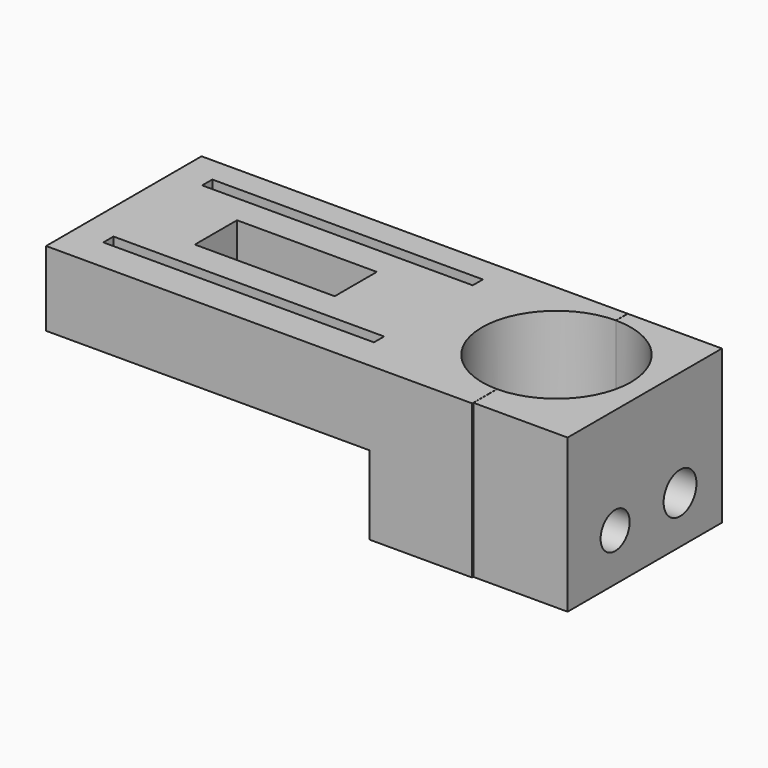
from build123d import *

# Parameters (mm, degrees)
F0_W      = 55.052046
F0_H      = 25.105778
F0_W_2    = 12.161485
F0_H_2    = 24.918798
F1_DEPTH  = 19.812
F2_R      = 9.609235
F3_DEPTH  = 37.338
F4_W      = 50.915458
F4_H      = 32.379413
F5_DEPTH  = 10.16
F6_R      = 2.654575
F6_R_2    = 2.346336
F7_DEPTH  = 25.4
F8_DEPTH  = 29.21
F9_W      = 34.960383
F9_H      = 1.642434
F9_H_2    = 1.642435
F9_W_2    = 18.066769
F9_H_3    = 6.804369
F10_DEPTH = 47.498


with BuildPart() as f1:
    # F0 (on Top) → F1 (new body)
    with BuildSketch(Plane.XY):
        with Locations((-27.526023, -1.055851)):
            Rectangle(F0_W, F0_H)
        with Locations((6.101649, -0.962361)):
            Rectangle(F0_W_2, F0_H_2)
    extrude(amount=F1_DEPTH)

    # F2 (on Top) → F3 (cut)
    with BuildSketch(Plane.XY):
        Circle(F2_R)
    extrude(amount=F3_DEPTH, mode=Mode.SUBTRACT)

    # F4 (on Top) → F5 (cut)
    with BuildSketch(Plane.XY):
        with Locations((-38.714517, -0.469266)):
            Rectangle(F4_W, F4_H)
    extrude(amount=F5_DEPTH, mode=Mode.SUBTRACT)

    # F6 (on Right) → F7 (cut)
    with BuildSketch(Plane.YZ):
        with Locations((4.733274, 6.129253)):
            Circle(F6_R)
        with Locations((-5.748518, 6.129253)):
            Circle(F6_R_2)
    extrude(amount=-F7_DEPTH, mode=Mode.SUBTRACT)

    # F6 (on Right) → F8 (cut)
    with BuildSketch(Plane.YZ):
        with Locations((4.733274, 6.129253)):
            Circle(F6_R)
        with Locations((-5.748518, 6.129253)):
            Circle(F6_R_2)
    extrude(amount=F8_DEPTH, mode=Mode.SUBTRACT)

    # F9 (on Top) → F10 (cut)
    with BuildSketch(Plane.XY):
        with Locations((-33.552582, -8.564121)):
            Rectangle(F9_W, F9_H)
        with Locations((-33.552582, 7.390954)):
            Rectangle(F9_W, F9_H_2)
        with Locations((-34.491112, -0.586583)):
            Rectangle(F9_W_2, F9_H_3)
    extrude(amount=F10_DEPTH, mode=Mode.SUBTRACT)


solid = f1.part
